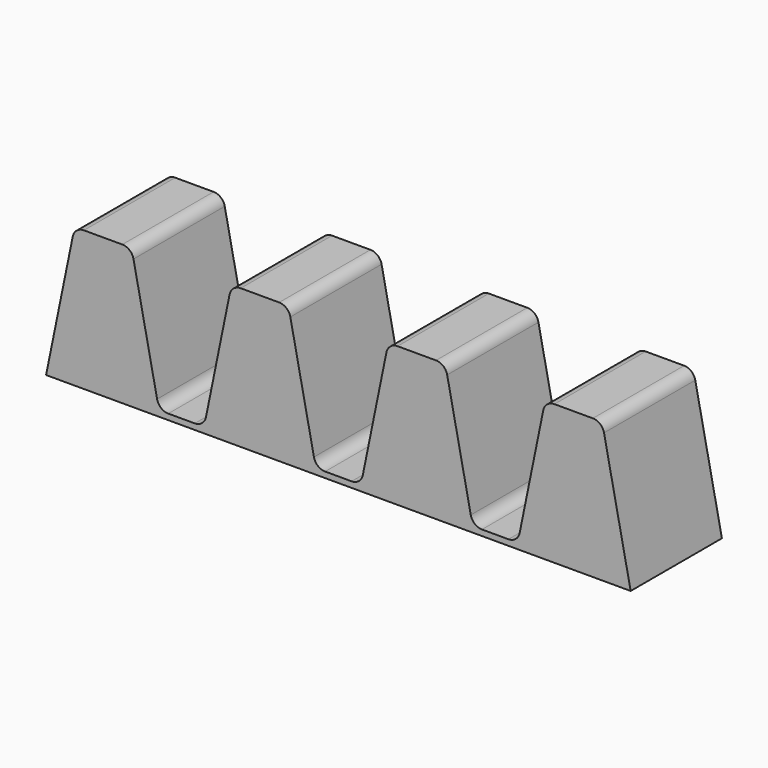
from build123d import *

# Parameters (mm, degrees)
F1_DEPTH = 50.8
F2_R     = 5.08
F3_R     = 5.08
F4_R     = 5.08
F5_R     = 5.08
F6_R     = 5.08
F7_R     = 5.08
F8_R     = 5.08
F9_R     = 5.08
F10_R    = 5.08
F11_R    = 5.08
F12_R    = 5.08
F13_R    = 5.08
F14_R    = 5.08
F15_R    = 5.08


with BuildPart() as f1:
    # F0 (on Front) → F1 (new body)
    with BuildSketch(Plane.XZ):
        Polygon((-107.95, 34.678186), (-120.65, -27.538854), (-69.85, -27.538854), (-70.377374, -24.955261), (-82.55, 34.678186), align=None)
        Polygon((-70.377374, -24.955261), (-69.85, -27.538854), (-50.8, -27.538854), (-50.272626, -24.955261), align=None)
        Polygon((-50.272626, -24.955261), (-50.8, -27.538854), (0, -27.538854), (-0.527374, -24.955261), (-12.7, 34.678186), (-38.1, 34.678186), align=None)
        Polygon((-0.527374, -24.955261), (0, -27.538854), (19.05, -27.538854), (19.577374, -24.955261), align=None)
        Polygon((19.577374, -24.955261), (19.05, -27.538854), (69.85, -27.538854), (69.322626, -24.955261), (57.15, 34.678186), (31.75, 34.678186), align=None)
        Polygon((69.322626, -24.955261), (69.85, -27.538854), (88.9, -27.538854), (89.427374, -24.955261), align=None)
        Polygon((89.427374, -24.955261), (88.9, -27.538854), (139.7, -27.538854), (127, 34.678186), (101.6, 34.678186), align=None)
    extrude(amount=F1_DEPTH)

    # F2
    f2_edges = [f1.edges().sort_by_distance(p)[0] for p in [
        (-50.272626, -25.4, -24.955261),
    ]]
    fillet(f2_edges, radius=F2_R)

    # F3
    f3_edges = [f1.edges().sort_by_distance(p)[0] for p in [
        (-70.377374, -25.4, -24.955261),
    ]]
    fillet(f3_edges, radius=F3_R)

    # F4
    f4_edges = [f1.edges().sort_by_distance(p)[0] for p in [
        (19.577374, -25.4, -24.955261),
    ]]
    fillet(f4_edges, radius=F4_R)

    # F5
    f5_edges = [f1.edges().sort_by_distance(p)[0] for p in [
        (-0.527374, -25.4, -24.955261),
    ]]
    fillet(f5_edges, radius=F5_R)

    # F6
    f6_edges = [f1.edges().sort_by_distance(p)[0] for p in [
        (69.322626, -25.4, -24.955261),
    ]]
    fillet(f6_edges, radius=F6_R)

    # F7
    f7_edges = [f1.edges().sort_by_distance(p)[0] for p in [
        (89.427374, -25.4, -24.955261),
    ]]
    fillet(f7_edges, radius=F7_R)

    # F8
    f8_edges = [f1.edges().sort_by_distance(p)[0] for p in [
        (-82.55, -25.4, 34.678186),
    ]]
    fillet(f8_edges, radius=F8_R)

    # F9
    f9_edges = [f1.edges().sort_by_distance(p)[0] for p in [
        (-38.1, -25.4, 34.678186),
    ]]
    fillet(f9_edges, radius=F9_R)

    # F10
    f10_edges = [f1.edges().sort_by_distance(p)[0] for p in [
        (-12.7, -25.4, 34.678186),
    ]]
    fillet(f10_edges, radius=F10_R)

    # F11
    f11_edges = [f1.edges().sort_by_distance(p)[0] for p in [
        (31.75, -25.4, 34.678186),
    ]]
    fillet(f11_edges, radius=F11_R)

    # F12
    f12_edges = [f1.edges().sort_by_distance(p)[0] for p in [
        (57.15, -25.4, 34.678186),
    ]]
    fillet(f12_edges, radius=F12_R)

    # F13
    f13_edges = [f1.edges().sort_by_distance(p)[0] for p in [
        (101.6, -25.4, 34.678186),
    ]]
    fillet(f13_edges, radius=F13_R)

    # F14
    f14_edges = [f1.edges().sort_by_distance(p)[0] for p in [
        (127, -25.4, 34.678186),
    ]]
    fillet(f14_edges, radius=F14_R)

    # F15
    f15_edges = [f1.edges().sort_by_distance(p)[0] for p in [
        (-107.95, -25.4, 34.678186),
    ]]
    fillet(f15_edges, radius=F15_R)


solid = f1.part
